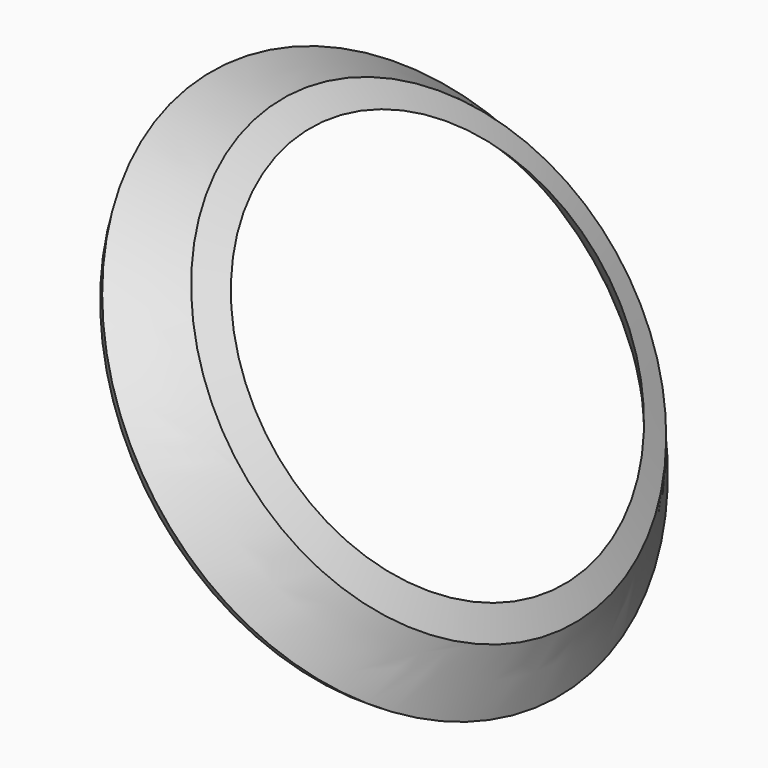
from build123d import *


with BuildPart() as f2:
    # F1 (on Right) → F2 (revolve)
    with BuildSketch(Plane.YZ):
        Polygon((56.418873, 9.61562), (64.464487, 15.268695), (64.464487, 44.735838), (55.48209, 50.647058), align=None)
    revolve(axis=Axis((-48.806101, 0, 59.918601), (0.783111, 0, 0.621882)))


solid = f2.part
